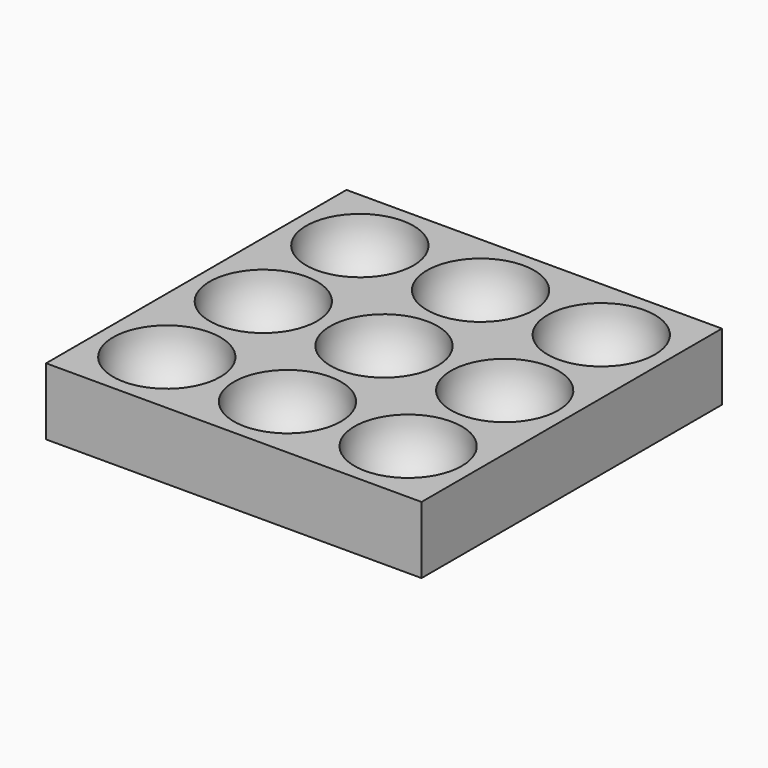
from build123d import *

# Parameters (mm, degrees)
ARRAY_X_COUNT = 3
ARRAY_X_PITCH = 18
ARRAY_Y_COUNT = 3
ARRAY_Y_PITCH = 18
BOX_W         = 56
BOX_H         = 56
BOX_DEPTH     = 10


with BuildPart() as array:
    # Sphere → Sphere (revolve)
    with BuildSketch(Plane.XZ):
        with BuildLine():
            ThreePointArc((0, -8), (8, 0), (0, 8))
            Line((0, 8), (0, -8))
        make_face()
    revolve(axis=Axis((0, 0, 0), (0, 0, 1)))

    # Array X: Array ×3


with BuildPart() as array_1:
    add(array.part)
    with Locations(*[(i * ARRAY_X_PITCH, 0, 0) for i in range(1, ARRAY_X_COUNT)]):
        add(array.part)

    # Array Y: Array ×3


with BuildPart() as array_2:
    add(array_1.part)
    with Locations(*[(0, i * ARRAY_Y_PITCH, 0) for i in range(1, ARRAY_Y_COUNT)]):
        add(array_1.part)


with BuildPart() as cut:
    # Box → Box (new body)
    with BuildSketch(Plane(origin=(-10, -10, -10), x_dir=(1, 0, 0), z_dir=(0, 0, 1))):
        with Locations((28, 28)):
            Rectangle(BOX_W, BOX_H)
    extrude(amount=BOX_DEPTH)

    # Cut: cut Array
    add(array_2.part, mode=Mode.SUBTRACT)


solid = cut.part
